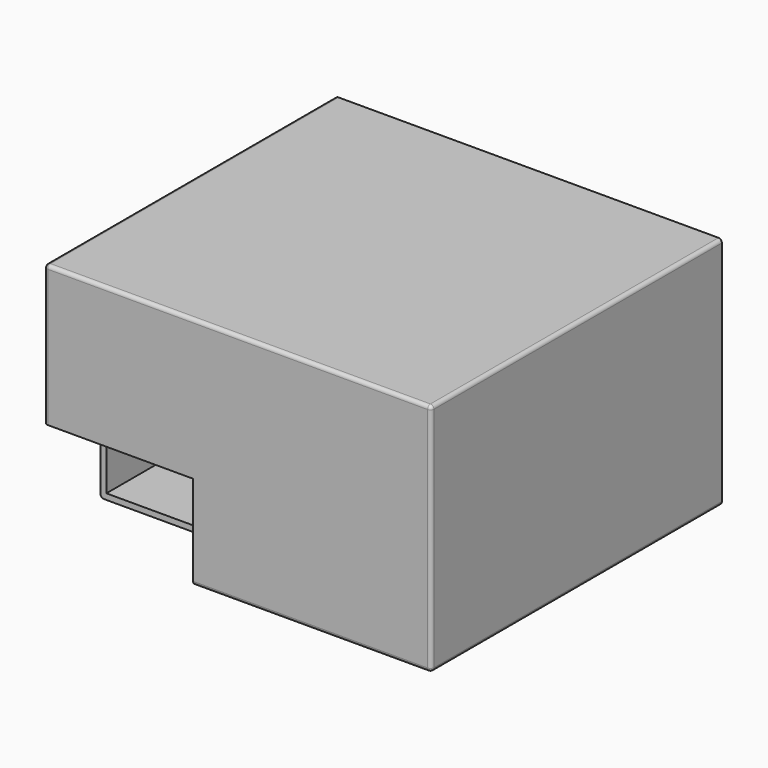
from build123d import *

# Parameters (mm, degrees)
BOX012_W     = 14
BOX012_H     = 10
BOX012_DEPTH = 10
BOX011_W     = 32
BOX011_H     = 35
BOX011_DEPTH = 19
BOX010_W     = 33
BOX010_H     = 31
BOX010_DEPTH = 20
FILLET_R     = 0.3


with BuildPart() as cubo001:
    # Box012 → Box012 (new body)
    with BuildSketch(Plane(origin=(-2, -11, -4), x_dir=(1, 0, 0), z_dir=(0, 0, 1))):
        with Locations((7, 5)):
            Rectangle(BOX012_W, BOX012_H)
    extrude(amount=BOX012_DEPTH)


with BuildPart() as cubo:
    # Box011 → Box011 (new body)
    with BuildSketch(Plane(origin=(-0.2, -6.5, -1.5), x_dir=(1, 0, 0), z_dir=(0, 0, 1))):
        with Locations((16, 17.5)):
            Rectangle(BOX011_W, BOX011_H)
    extrude(amount=BOX011_DEPTH)


with BuildPart() as cut001:
    # Box010 → Box010 (new body)
    with BuildSketch(Plane(origin=(-0.7, -7, -2), x_dir=(1, 0, 0), z_dir=(0, 0, 1))):
        with Locations((16.5, 15.5)):
            Rectangle(BOX010_W, BOX010_H)
    extrude(amount=BOX010_DEPTH)

    # Cut: cut Cubo
    add(cubo.part, mode=Mode.SUBTRACT)

    # Fillet
    fillet_edges = [cut001.edges().sort_by_distance(p)[0] for p in [
        (-0.7, -7, 8),
        (-0.7, 8.5, 18),
        (-0.7, 8.5, -2),
        (15.8, -7, -2),
        (32.3, -7, 8),
        (15.8, -7, 18),
        (32.3, 8.5, 18),
        (32.3, 8.5, -2),
    ]]
    fillet(fillet_edges, radius=FILLET_R)

    # Cut001: cut Cubo001
    add(cubo001.part, mode=Mode.SUBTRACT)


solid = cut001.part
